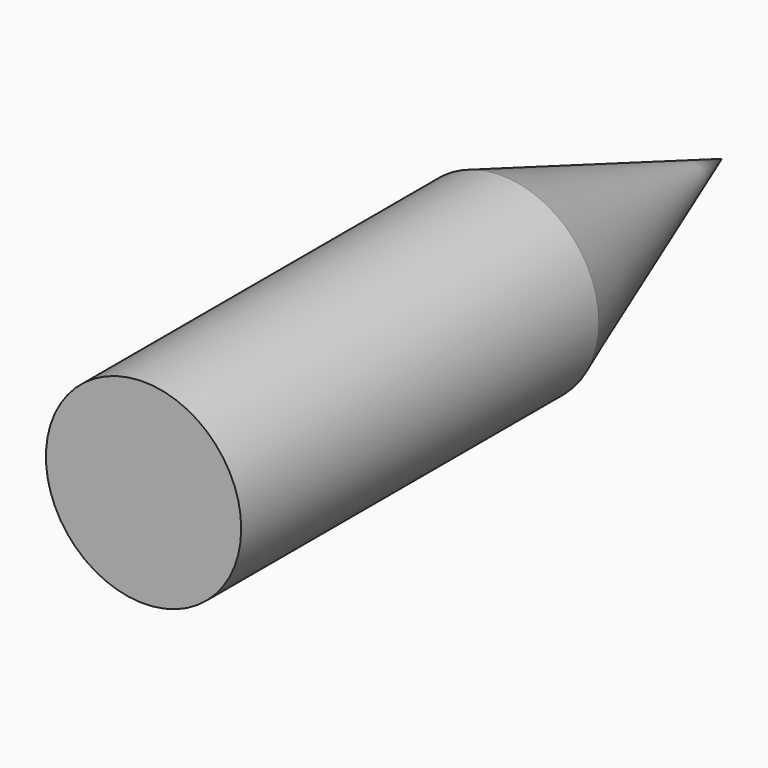
from build123d import *

# Parameters (mm, degrees)
F0_R      = 26.542564
F2_FACE_R = 26.542564
F3_DEPTH  = 121.490896


with BuildPart() as f2:
    # F0 (on Front) → F2 section 0
    with BuildSketch(Plane.XZ, mode=Mode.PRIVATE) as f2_s0:
        Circle(F0_R)
    loft([f2_s0.sketch, Vertex(0, 75.001314, 0)])

    # F2_face (on face) → F3 (join)
    with BuildSketch(Plane.XZ):
        Circle(F2_FACE_R)
    extrude(amount=F3_DEPTH)


solid = f2.part
